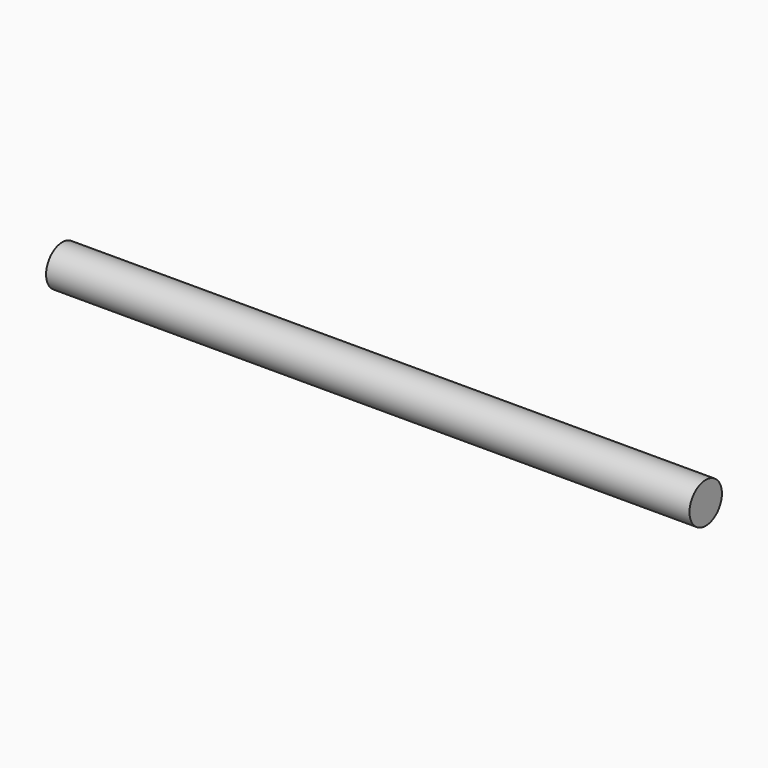
from build123d import *

# Parameters (mm, degrees)
F0_R     = 5.982402
F1_DEPTH = 200
F2_W     = 45.446075
F2_H     = 2.038203
F3_DEPTH = 12.5
F4_R     = 61.03573
F5_DEPTH = 25
F6_W     = 51.913552
F6_H     = 32.489951
F7_DEPTH = 10


with BuildPart() as f1:
    # F0 (on Right) → F1 (new body)
    with BuildSketch(Plane.YZ):
        Circle(F0_R)
    extrude(amount=F1_DEPTH)

    # F2 (on Top) → F3 (cut, symmetric)
    with BuildSketch(Plane.XY):
        with Locations((22.723038, 5.091489)):
            Rectangle(F2_W, F2_H)
    extrude(amount=F3_DEPTH, both=True, mode=Mode.SUBTRACT)

    # F4 (on face) → F5 (cut)
    with BuildSketch(Plane(origin=(0, 4.072388, 0), x_dir=(-1, 0, 0), z_dir=(0, 1, 0))):
        with Locations((15.432127, 0)):
            Circle(F4_R)
    extrude(amount=F5_DEPTH, mode=Mode.SUBTRACT)

    # F6 (on face) → F7 (cut)
    with BuildSketch(Plane(origin=(0, 0, 0), x_dir=(0, -1, 0), z_dir=(-1, 0, 0))):
        with Locations((-6.045349, -2.592297)):
            Rectangle(F6_W, F6_H)
    extrude(amount=-F7_DEPTH, mode=Mode.SUBTRACT)


solid = f1.part
